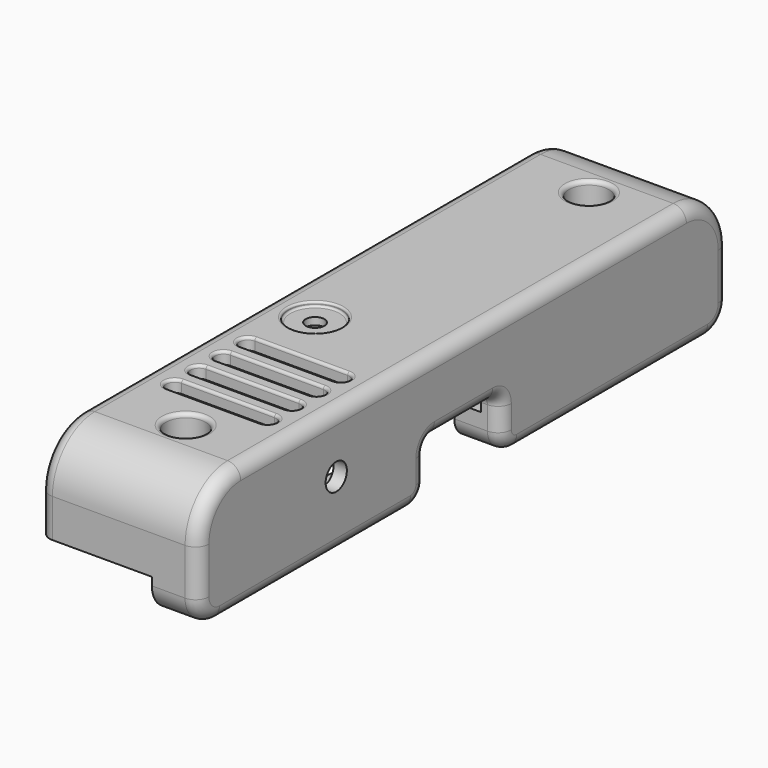
from build123d import *

# Parameters (mm, degrees)
SKETCH_W        = 24
SKETCH_H        = 100
PAD_DEPTH       = 19
SKETCH001_W     = 17
SKETCH001_H     = 5.2
POCKET_DEPTH    = 100.001
SKETCH002_R     = 1.4
POCKET001_DEPTH = 19.001
SKETCH003_R     = 3
POCKET002_DEPTH = 9
POCKET003_DEPTH = 12
POCKET004_DEPTH = 10
SKETCH007_R     = 1.4
POCKET005_DEPTH = 1.801
SKETCH008_R     = 2
POCKET006_DEPTH = 2.001
POCKET007_DEPTH = 1.801
FILLET_R        = 8
FILLET001_R     = 4
SKETCH010_R     = 4
POCKET008_DEPTH = 0.7
FILLET002_R     = 3
FILLET003_R     = 1.5
FILLET004_R     = 2
FILLET005_R     = 0.3
FILLET006_R     = 0.6
FILLET007_R     = 0.4


with BuildPart() as part:
    # Sketch → Pad (new body)
    with BuildSketch(Plane.XY):
        Rectangle(SKETCH_W, SKETCH_H)
    extrude(amount=PAD_DEPTH)

    # Sketch001 → Pocket (cut, through all)
    with BuildSketch(Plane.XZ.offset(50)):
        with Locations((-3.5, 2.6)):
            Rectangle(SKETCH001_W, SKETCH001_H)
    extrude(amount=-POCKET_DEPTH, mode=Mode.SUBTRACT)

    # Sketch002 → Pocket001 (cut, through all)
    with BuildSketch(Plane.XY.offset(19)):
        with Locations((0.5, 38)):
            Circle(SKETCH002_R)
        with Locations((0.5, -38)):
            Circle(SKETCH002_R)
    extrude(amount=-POCKET001_DEPTH, mode=Mode.SUBTRACT)

    # Sketch003 → Pocket002 (cut)
    with BuildSketch(Plane.XY.offset(19)):
        with Locations((0.5, -38)):
            Circle(SKETCH003_R)
        with Locations((0.5, 38)):
            Circle(SKETCH003_R)
    extrude(amount=-POCKET002_DEPTH, mode=Mode.SUBTRACT)

    # Sketch005 → Pocket003 (cut)
    with BuildSketch(Plane(origin=(0, 0, 5.2), x_dir=(1, 0, 0), z_dir=(0, 0, -1))):
        Polygon((-10, 34), (10, 34), (10, 9), (9, 9), (9, -34), (-9, -34), (-9, 9), (-10, 9), align=None)
    extrude(amount=-POCKET003_DEPTH, mode=Mode.SUBTRACT)

    # Sketch006 → Pocket004 (cut)
    with BuildSketch(Plane.YZ.offset(12)):
        Polygon((0, 0), (7, 0), (7, 8), (-7, 8), (-7, 0), align=None)
    extrude(amount=-POCKET004_DEPTH, mode=Mode.SUBTRACT)

    # Sketch007 → Pocket005 (cut, through all)
    with BuildSketch(Plane(origin=(0, 0, 17.2), x_dir=(1, 0, 0), z_dir=(0, 0, -1))):
        with Locations((-4.8, 7)):
            Circle(SKETCH007_R)
    extrude(amount=-POCKET005_DEPTH, mode=Mode.SUBTRACT)

    # Sketch008 → Pocket006 (cut, through all)
    with BuildSketch(Plane(origin=(10, 0, 0), x_dir=(0, -1, 0), z_dir=(-1, 0, 0))):
        with Locations((24, 10.2)):
            Circle(SKETCH008_R)
    extrude(amount=-POCKET006_DEPTH, mode=Mode.SUBTRACT)

    # Sketch009 → Pocket007 (cut, through all)
    with BuildSketch(Plane(origin=(0, 0, 17.2), x_dir=(1, 0, 0), z_dir=(0, 0, -1))):
        with BuildLine():
            ThreePointArc((-7, 32), (-8.3, 30.7), (-7, 29.4))
            Line((-7, 29.4), (7, 29.4))
            ThreePointArc((7, 29.4), (8.3, 30.7), (7, 32))
            Line((-7, 32), (7, 32))
        make_face()
        with BuildLine():
            ThreePointArc((7, 24.8), (8.3, 26.1), (7, 27.4))
            Line((7, 27.4), (-7, 27.4))
            ThreePointArc((-7, 27.4), (-8.3, 26.1), (-7, 24.8))
            Line((7, 24.8), (-7, 24.8))
        make_face()
        with BuildLine():
            ThreePointArc((7, 20.2), (8.3, 21.5), (7, 22.8))
            Line((7, 22.8), (-7, 22.8))
            ThreePointArc((-7, 22.8), (-8.3, 21.5), (-7, 20.2))
            Line((7, 20.2), (-7, 20.2))
        make_face()
        with BuildLine():
            ThreePointArc((7, 15.6), (8.3, 16.9), (7, 18.2))
            Line((7, 18.2), (-7, 18.2))
            ThreePointArc((-7, 18.2), (-8.3, 16.9), (-7, 15.6))
            Line((7, 15.6), (-7, 15.6))
        make_face()
    extrude(amount=-POCKET007_DEPTH, mode=Mode.SUBTRACT)

    # Fillet
    fillet_edges = [part.edges().sort_by_distance(p)[0] for p in [
        (0, 50, 19),
        (0, -50, 19),
    ]]
    fillet(fillet_edges, radius=FILLET_R)

    # Fillet001
    fillet001_edges = [part.edges().sort_by_distance(p)[0] for p in [
        (8.5, 50, 0),
        (8.5, -50, 0),
    ]]
    fillet(fillet001_edges, radius=FILLET001_R)

    # Sketch010 → Pocket008 (cut)
    with BuildSketch(Plane.XY.offset(19)):
        with Locations((-4.8, -7)):
            Circle(SKETCH010_R)
    extrude(amount=-POCKET008_DEPTH, mode=Mode.SUBTRACT)

    # Fillet002
    fillet002_edges = [part.edges().sort_by_distance(p)[0] for p in [
        (8.5, -7, 0),
        (8.5, 7, 0),
    ]]
    fillet(fillet002_edges, radius=FILLET002_R)

    # Fillet003
    fillet003_edges = [part.edges().sort_by_distance(p)[0] for p in [
        (10.5, 7, 8),
        (10.5, -7, 8),
    ]]
    fillet(fillet003_edges, radius=FILLET003_R)

    # Fillet004
    fillet004_edges = [part.edges().sort_by_distance(p)[0] for p in [
        (12, -50, 7.5),
        (12, -48.828427, 1.171573),
        (12, -47.656854, 16.656854),
        (12, 0, 19),
        (12, 47.656854, 16.656854),
        (12, 50, 7.5),
        (12, 48.828427, 1.171573),
        (12, 28, 0),
        (12, 7.87868, 0.87868),
        (12, 7, 4.75),
        (12, 6.56066, 7.56066),
        (12, 0, 8),
        (12, -6.56066, 7.56066),
        (12, -7, 4.75),
        (12, -7.87868, 0.87868),
        (12, -28, 0),
        (-12, 50, 8.1),
        (-12, 47.656854, 16.656854),
        (-12, 0, 19),
        (-12, -47.656854, 16.656854),
        (-12, -50, 8.1),
    ]]
    fillet(fillet004_edges, radius=FILLET004_R)

    # Fillet005
    fillet005_edges = [part.edges().sort_by_distance(p)[0] for p in [
        (-8.8, -7, 19),
        (-8.8, -7, 18.3),
    ]]
    fillet(fillet005_edges, radius=FILLET005_R)

    # Fillet006
    fillet006_edges = [part.edges().sort_by_distance(p)[0] for p in [
        (-2.5, -38, 19),
        (-2.5, 38, 19),
    ]]
    fillet(fillet006_edges, radius=FILLET006_R)

    # Fillet007
    fillet007_edges = [part.edges().sort_by_distance(p)[0] for p in [
        (0, -29.4, 19),
        (-8.3, -30.7, 19),
        (0, -32, 19),
        (8.3, -30.7, 19),
        (0, -27.4, 19),
        (8.3, -26.1, 19),
        (0, -24.8, 19),
        (-8.3, -26.1, 19),
        (0, -22.8, 19),
        (0, -20.2, 19),
        (-8.3, -21.5, 19),
        (8.3, -21.5, 19),
        (0, -18.2, 19),
        (-8.3, -16.9, 19),
        (0, -15.6, 19),
        (8.3, -16.9, 19),
    ]]
    fillet(fillet007_edges, radius=FILLET007_R)


solid = part.part
